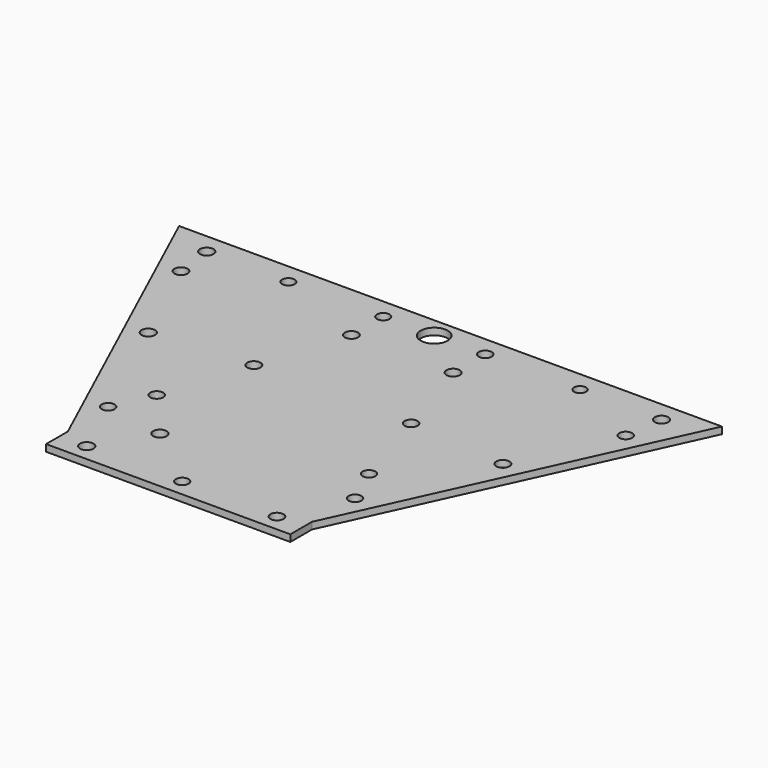
from build123d import *

# Parameters (mm, degrees)
F0_W     = 114.3
F0_H     = 12.7
F1_DEPTH = 3.175
F2_R     = 6.35
F3_DEPTH = 25.4
F4_R     = 3.021184
F4_R_2   = 3.02523
F4_R_3   = 3.170788
F4_R_4   = 3.070755
F4_R_5   = 3.170798
F4_R_6   = 2.930153
F4_R_7   = 2.94527
F4_R_8   = 3.090546
F4_R_9   = 3.106591
F4_R_10  = 2.82513
F4_R_11  = 3.161756
F4_R_12  = 3.03759
F4_R_13  = 3.13771
F4_R_14  = 3.0417
F4_R_15  = 3.104919
F4_R_16  = 2.990317
F4_R_17  = 3.019885
F5_DEPTH = 25.4
F6_R     = 3.185907
F6_R_2   = 2.97679
F6_R_3   = 3.061714
F7_DEPTH = 25.4
F8_R     = 3.175
F9_DEPTH = 25.4


with BuildPart() as f1:
    # F0 (on Top) → F1 (new body)
    with BuildSketch(Plane.XY):
        Polygon((31.75, -76.2), (101.6, 76.2), (-152.4, 76.2), (-82.55, -76.2), align=None)
        with Locations((-25.4, -82.55)):
            Rectangle(F0_W, F0_H)
    extrude(amount=F1_DEPTH)

    # F2 (on face) → F3 (cut)
    with BuildSketch(Plane.XY.offset(3.175)):
        with Locations((-25.4, 66.675)):
            Circle(F2_R)
    extrude(amount=-F3_DEPTH, mode=Mode.SUBTRACT)

    # F4 (on face) → F5 (cut)
    with BuildSketch(Plane(origin=(0, 0, 0), x_dir=(1, 0, 0), z_dir=(0, 0, -1))):
        with Locations((-83.284251, 51.700644)):
            Circle(F4_R)
        with Locations((-75.218096, 33.298224)):
            Circle(F4_R_2)
        with Locations((-108.495958, -3.321084)):
            Circle(F4_R_3)
        with Locations((-129.506573, -48.709944)):
            Circle(F4_R_4)
        with Locations((-131.85069, -66.695675)):
            Circle(F4_R_5)
        with Locations((-93.609944, -66.641048)):
            Circle(F4_R_6)
        with Locations((-49.322799, -66.762716)):
            Circle(F4_R_7)
        with Locations((-49.380876, -48.191752)):
            Circle(F4_R_8)
        with Locations((-62.322322, -7.321586)):
            Circle(F4_R_9)
        with Locations((-1.619848, -66.78725)):
            Circle(F4_R)
        with Locations((42.874776, -66.633321)):
            Circle(F4_R_10)
        with Locations((80.977194, -66.69376)):
            Circle(F4_R_11)
        with Locations((78.597426, -48.701756)):
            Circle(F4_R_12)
        with Locations((-1.711915, -48.14671)):
            Circle(F4_R_13)
        with Locations((11.359618, -7.188707)):
            Circle(F4_R_14)
        with Locations((57.579476, -3.127213)):
            Circle(F4_R_15)
        with Locations((24.301577, 33.58651)):
            Circle(F4_R_16)
        with Locations((32.399718, 51.890686)):
            Circle(F4_R_17)
    extrude(amount=-F5_DEPTH, mode=Mode.SUBTRACT)

    # F6 (on face) → F7 (cut)
    with BuildSketch(Plane(origin=(0, 0, 0), x_dir=(1, 0, 0), z_dir=(0, 0, -1))):
        with Locations((-69.916442, 80.901213)):
            Circle(F6_R)
        with Locations((-25.25891, 80.907866)):
            Circle(F6_R_2)
        with Locations((19.162027, 81.010833)):
            Circle(F6_R_3)
    extrude(amount=-F7_DEPTH, mode=Mode.SUBTRACT)

    # F8 (on face) → F9 (cut)
    with BuildSketch(Plane(origin=(0, 0, 0), x_dir=(1, 0, 0), z_dir=(0, 0, -1))):
        with Locations((-55.243213, 56.448877)):
            Circle(F8_R)
    extrude(amount=-F9_DEPTH, mode=Mode.SUBTRACT)


solid = f1.part
